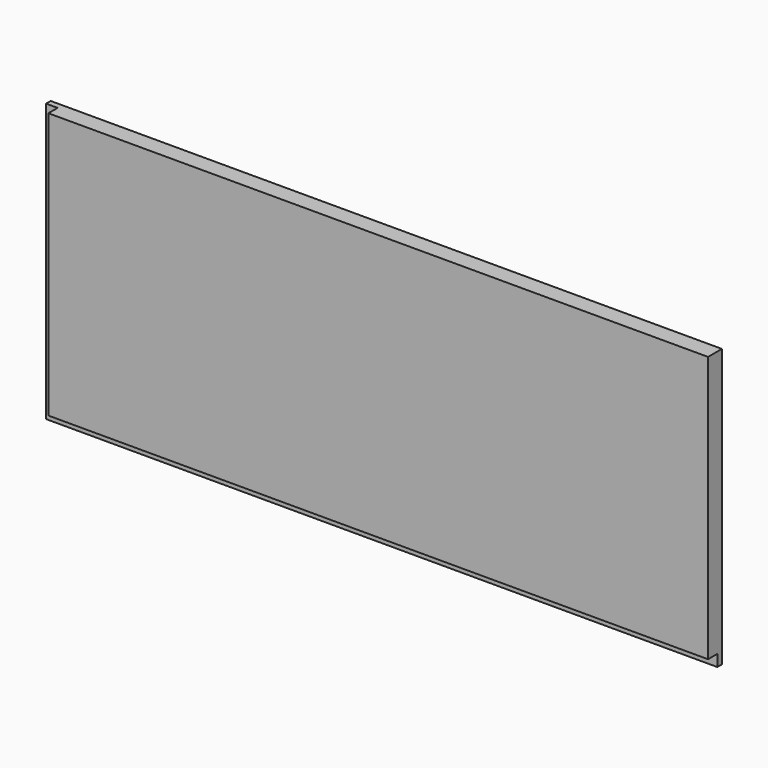
from build123d import *

# Parameters (mm, degrees)
F0_W     = 736.6
F0_H     = 304.8
F1_DEPTH = 19.05
F2_W     = 12.7
F2_H     = 12.7
F3_DEPTH = 736.601
F4_W     = 12.7
F4_H     = 12.7
F5_DEPTH = 304.801


with BuildPart() as f1:
    # F0 (on Front) → F1 (new body)
    with BuildSketch(Plane.XZ):
        with Locations((368.3, 152.4)):
            Rectangle(F0_W, F0_H)
        with Locations((368.3, 152.4)):
            Rectangle(F0_W, F0_H)
    extrude(amount=F1_DEPTH)

    # F2 (on face) → F3 (cut, through all)
    with BuildSketch(Plane.YZ.offset(736.6)):
        with Locations((-12.7, 6.35)):
            Rectangle(F2_W, F2_H)
    extrude(amount=-F3_DEPTH, mode=Mode.SUBTRACT)

    # F4 (on face) → F5 (cut, through all)
    with BuildSketch(Plane.XY.offset(304.8)):
        with Locations((6.35, -12.7)):
            Rectangle(F4_W, F4_H)
    extrude(amount=-F5_DEPTH, mode=Mode.SUBTRACT)


solid = f1.part
